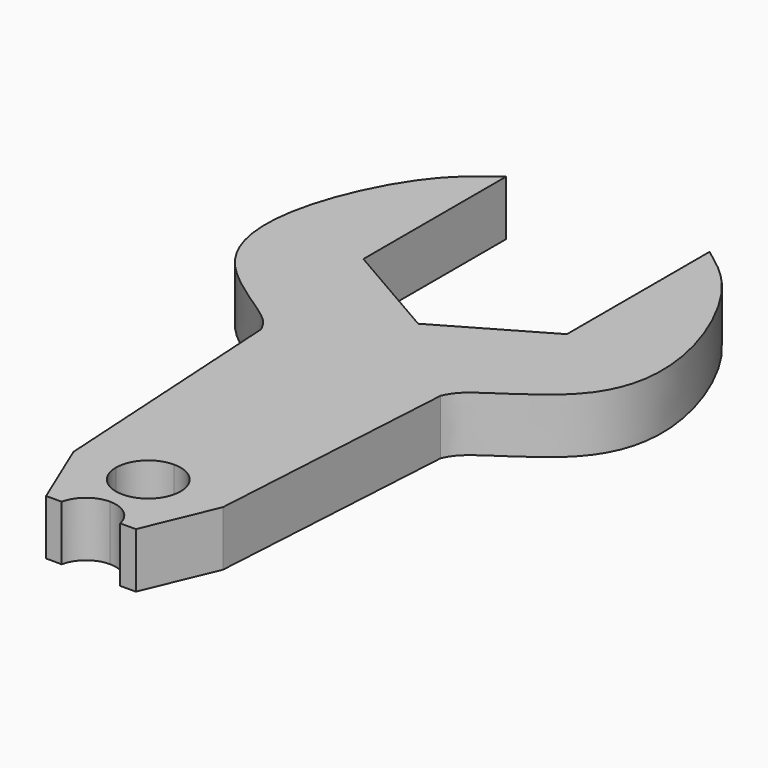
from build123d import *

# Parameters (mm, degrees)
F1_DEPTH = 4.6


with BuildPart() as f1:
    # F0 (on Top) → F1 (new body)
    with BuildSketch(Plane.XY):
        with BuildLine():
            add(Edge.make_bspline(
                [(-8.5, 48), (-9.8024770987, 47.0450035283), (-12.8961101174, 44.7767036705), (-17.2574412974, 35.4365031151), (-16.1224085544, 26.8770846678), (-8.337300297, 22.9033200888), (-7.7030849608, 21.5755830002), (-7.5026569915, 21.1559847449)],
                knots=[0, 0, 0, 0, 0.1847988509, 0.4389327287, 0.6684893369, 0.8952343073, 1, 1, 1, 1], degree=3))
            Line((-7.5026569915, 21.1559847449), (-8.1991407492, 32.9188215425))
            Line((-8.1991407492, 32.9188215425), (-8.5, 33.0925227119))
            Line((-8.5, 33.0925227119), (-8.5, 38))
            Line((-8.5, 38), (-8.5, 42.9074772881))
            Line((-8.5, 42.9074772881), (-8.5, 48))
        make_face()
        with BuildLine():
            Line((8.1991407492, 32.9188215425), (7.5026569915, 21.1559847449))
            add(Edge.make_bspline(
                [(8.5, 48), (9.8024770987, 47.0450035283), (12.8961101174, 44.7767036705), (17.2574412974, 35.4365031151), (16.1224085544, 26.8770846678), (8.337300297, 22.9033200888), (7.7030849608, 21.5755830002), (7.5026569915, 21.1559847449)],
                knots=[0, 0, 0, 0, 0.1847988509, 0.4389327287, 0.6684893369, 0.8952343073, 1, 1, 1, 1], degree=3))
            Line((8.5, 48), (8.5, 42.9074772881))
            Line((8.5, 42.9074772881), (8.5, 38))
            Line((8.5, 38), (8.5, 33.0925227119))
            Line((8.5, 33.0925227119), (8.1991407492, 32.9188215425))
        make_face()
        with BuildLine():
            ThreePointArc((0, 2.7), (1.9091883092, 1.9091883092), (2.7, 0))
            Line((2.7, 0), (6.25, 0))
            Line((6.25, 0), (7.5026569915, 21.1559847449))
            Line((7.5026569915, 21.1559847449), (8.1991407492, 32.9188215425))
            Line((8.1991407492, 32.9188215425), (4.249999944, 30.6387840355))
            Line((4.249999944, 30.6387840355), (0, 28.1850454238))
            Line((0, 28.1850454238), (0, 2.7))
        make_face()
        with BuildLine():
            ThreePointArc((-2.7, 0), (-1.9091883092, 1.9091883092), (0, 2.7))
            Line((0, 2.7), (0, 28.1850454238))
            Line((0, 28.1850454238), (-4.2500000293, 30.6387840847))
            Line((-4.2500000293, 30.6387840847), (-8.1991407492, 32.9188215425))
            Line((-8.1991407492, 32.9188215425), (-7.5026569915, 21.1559847449))
            Line((-7.5026569915, 21.1559847449), (-6.25, 0))
            Line((-6.25, 0), (-2.7, 0))
        make_face()
        with BuildLine():
            Line((6.25, 0), (2.7, 0))
            ThreePointArc((2.7, 0), (1.9091883092, -1.9091883092), (0, -2.7))
            Line((0, -2.7), (0, -4))
            ThreePointArc((0, -4), (1.5738350665, -4.5575677145), (2.4456544361, -5.9815654531))
            Line((2.4456544361, -5.9815654531), (2.5, -5.9815654531))
            Line((2.5, -5.9815654531), (3.75, -5.9815654531))
            Line((3.75, -5.9815654531), (6.25, 0))
        make_face()
        with BuildLine():
            Line((0, -4), (0, -2.7))
            ThreePointArc((0, -2.7), (-1.9091883092, -1.9091883092), (-2.7, 0))
            Line((-2.7, 0), (-6.25, 0))
            Line((-6.25, 0), (-3.75, -5.9815654531))
            Line((-3.75, -5.9815654531), (-2.5, -5.9815654531))
            Line((-2.5, -5.9815654531), (-2.4456544361, -5.9815654531))
            ThreePointArc((-2.4456544361, -5.9815654531), (-1.5738350665, -4.5575677145), (0, -4))
        make_face()
    extrude(amount=F1_DEPTH)


solid = f1.part
